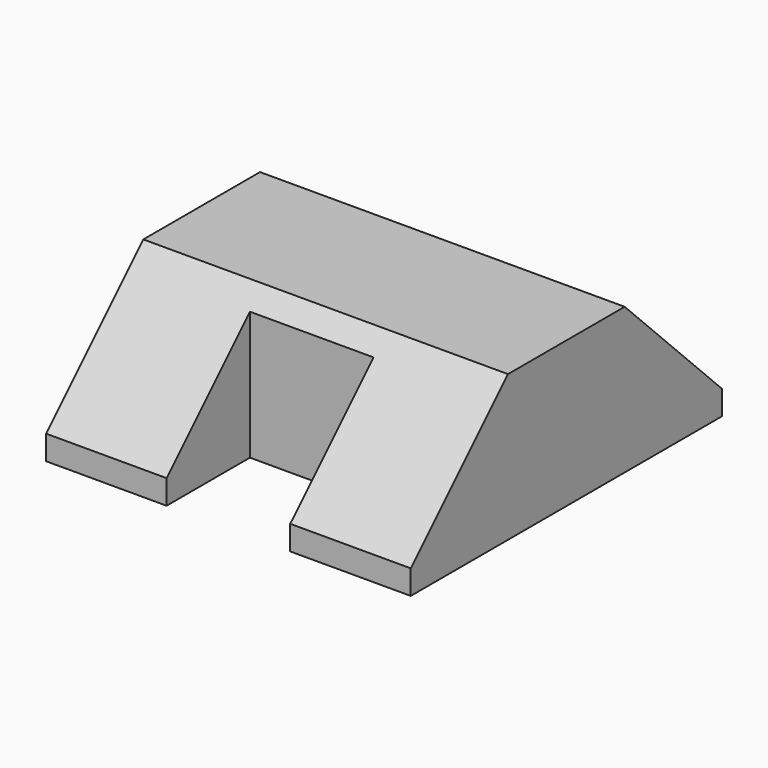
from build123d import *

# Parameters (mm, degrees)
SKETCH022_W             = 3.2
SKETCH022_H             = 3
PAD022_DEPTH            = 1.2
CHAMFER008_SIZE         = 1
SKETCH023_W             = 2.017963
SKETCH023_H             = 1.017
POCKET_DEPTH            = 5
BODY022_PLACEMENT_ANGLE = 90


with BuildPart() as part:
    # Sketch022 → Pad022 (new body)
    with BuildSketch(Plane.XY):
        Rectangle(SKETCH022_W, SKETCH022_H)
    extrude(amount=PAD022_DEPTH)

    # Chamfer008
    chamfer008_edges = [part.edges().sort_by_distance(p)[0] for p in [
        (-1.6, 0, 1.2),
        (1.6, 0, 1.2),
    ]]
    chamfer(chamfer008_edges, length=CHAMFER008_SIZE)

    # Sketch023 (on Face5 of Chamfer008) → Pocket (cut)
    with BuildSketch(Plane.XY.offset(1.2)):
        with Locations((-1.75199, 0)):
            Rectangle(SKETCH023_W, SKETCH023_H)
    extrude(amount=-POCKET_DEPTH, mode=Mode.SUBTRACT)


with BuildPart() as part_1:
    # Body022 placement: moved
    add(part.part.rotate(Axis((0, 0, 0), (0, 0, 1)), BODY022_PLACEMENT_ANGLE))


solid = part_1.part
